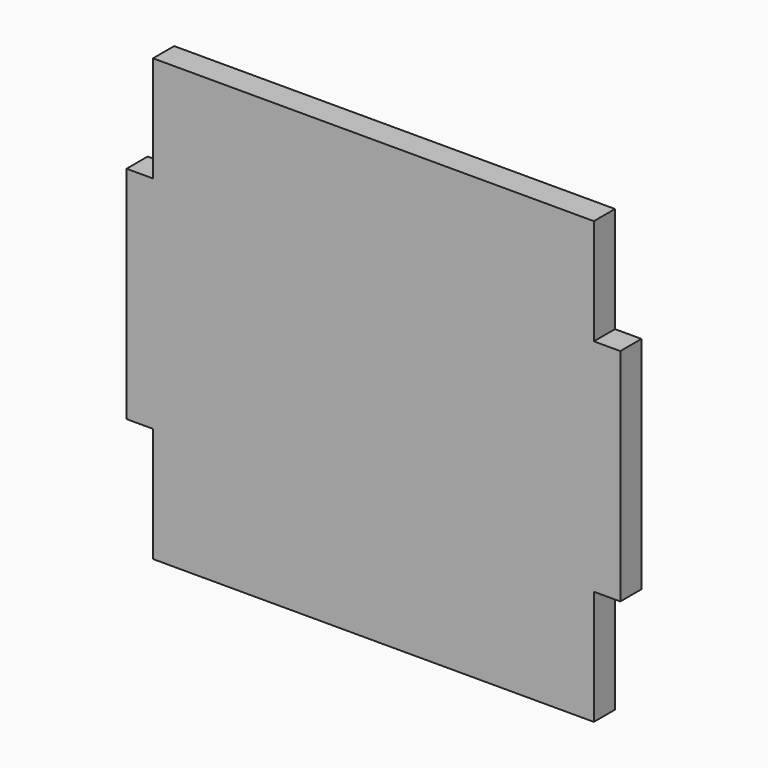
from build123d import *

# Parameters (mm, degrees)
F0_W     = 50
F0_H     = 50
F1_DEPTH = 3
F2_W     = 3
F2_H     = 25
F3_DEPTH = 3
F4_W     = 3
F4_H     = 25
F5_DEPTH = 3


with BuildPart() as f1:
    # F0 (on Front) → F1 (new body)
    with BuildSketch(Plane.XZ):
        with Locations((-35.504888, 0.668609)):
            Rectangle(F0_W, F0_H)
    extrude(amount=F1_DEPTH)

    # F2 (on face) → F3 (join)
    with BuildSketch(Plane.YZ.offset(-10.504888)):
        with Locations((-1.5, 1.168609)):
            Rectangle(F2_W, F2_H)
    extrude(amount=F3_DEPTH)

    # F4 (on face) → F5 (join)
    with BuildSketch(Plane(origin=(-60.504888, 0, 0), x_dir=(0, -1, 0), z_dir=(-1, 0, 0))):
        with Locations((1.5, 1.168609)):
            Rectangle(F4_W, F4_H)
    extrude(amount=F5_DEPTH)


solid = f1.part
